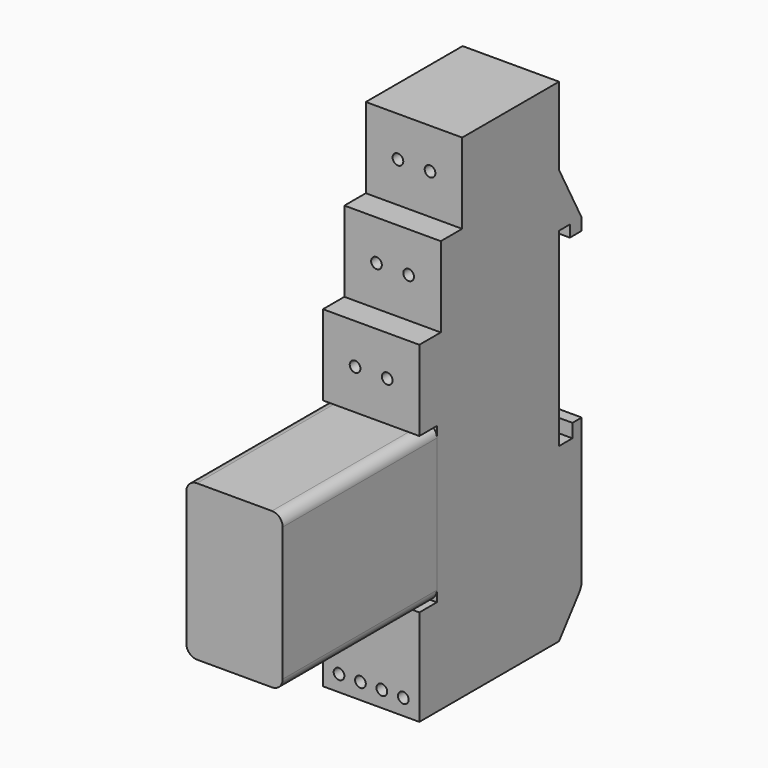
from build123d import *

# Parameters (mm, degrees)
F1_DEPTH  = 9
F2_R      = 1
F3_DEPTH  = 5
F4_R      = 1
F5_DEPTH  = 5
F6_R      = 1
F7_DEPTH  = 5
F8_R      = 1
F9_DEPTH  = 5
F10_W     = 18
F10_H     = 29
F11_DEPTH = 36
F12_R     = 2


with BuildPart() as f1:
    # F0 (on Right) → F1 (new body, symmetric)
    with BuildSketch(Plane.YZ):
        with BuildLine():
            Line((0, 0), (0, 35.4))
            Line((0, 35.4), (2.5290442254, 35.4))
            Line((2.5290442254, 35.4), (2.5290442254, 33.2293925524))
            Line((2.5290442254, 33.2293925524), (5.3, 33.2293925524))
            Line((5.3, 33.2293925524), (5.3, 35.4))
            Line((5.3, 35.4), (0, 45.4))
            Line((0, 45.4), (0, 59.9))
            Line((0, 59.9), (-22.6, 59.9))
            Line((-22.6, 59.9), (-22.6, 44.9))
            Line((-22.6, 44.9), (-27.6, 44.9))
            Line((-27.6, 44.9), (-27.6, 29.9))
            Line((-27.6, 29.9), (-32.6, 29.9))
            Line((-32.6, 29.9), (-32.6, 14.9))
            Line((-32.6, 14.9), (-28.5, 14.9))
            Line((-28.5, 14.9), (-28.5, -14.1))
            Line((-28.5, -14.1), (-32.6, -14.1))
            Line((-32.6, -14.1), (-32.6, -32.1))
            Line((-32.6, -32.1), (0, -32.1))
            Line((0, -32.1), (4.6715575988, -26.0700664431))
            ThreePointArc((4.6715575988, -26.0700664431), (5.1385447677, -25.2036633164), (5.3, -24.2327546689))
            Line((5.3, -24.2327546689), (5.3, 0))
            Line((5.3, 0), (5.3, 2.5407448411))
            Line((5.3, 2.5407448411), (3.1340913847, 2.5407448411))
            Line((3.1340913847, 2.5407448411), (3.1340913847, 0))
            Line((3.1340913847, 0), (0, 0))
        make_face()
    extrude(amount=F1_DEPTH, both=True)

    # F2 (on face) → F3 (cut)
    with BuildSketch(Plane.XZ.offset(22.6)):
        with Locations((-3, 52.4)):
            Circle(F2_R)
        with Locations((3, 52.4)):
            Circle(F2_R)
    extrude(amount=-F3_DEPTH, mode=Mode.SUBTRACT)

    # F4 (on face) → F5 (cut)
    with BuildSketch(Plane.XZ.offset(27.6)):
        with Locations((-3, 37.4)):
            Circle(F4_R)
        with Locations((3, 37.4)):
            Circle(F4_R)
    extrude(amount=-F5_DEPTH, mode=Mode.SUBTRACT)

    # F6 (on face) → F7 (cut)
    with BuildSketch(Plane.XZ.offset(32.6)):
        with Locations((-3, 22.4)):
            Circle(F6_R)
        with Locations((3, 22.4)):
            Circle(F6_R)
    extrude(amount=-F7_DEPTH, mode=Mode.SUBTRACT)

    # F8 (on face) → F9 (cut)
    with BuildSketch(Plane.XZ.offset(32.6)):
        with Locations((-6, -29.1)):
            Circle(F8_R)
        with Locations((-2, -29.1)):
            Circle(F8_R)
        with Locations((2, -29.1)):
            Circle(F8_R)
        with Locations((6, -29.1)):
            Circle(F8_R)
    extrude(amount=-F9_DEPTH, mode=Mode.SUBTRACT)


with BuildPart() as f11:
    # F10 (on face) → F11 (new body)
    with BuildSketch(Plane.XZ.offset(28.5)):
        with Locations((0, 0.4)):
            Rectangle(F10_W, F10_H)
    extrude(amount=F11_DEPTH)

    # F12
    f12_edges = [f11.edges().sort_by_distance(p)[0] for p in [
        (9, -46.5, 14.9),
        (9, -46.5, -14.1),
        (-9, -46.5, -14.1),
        (-9, -46.5, 14.9),
    ]]
    fillet(f12_edges, radius=F12_R)


solid = Compound([f1.part, f11.part])
